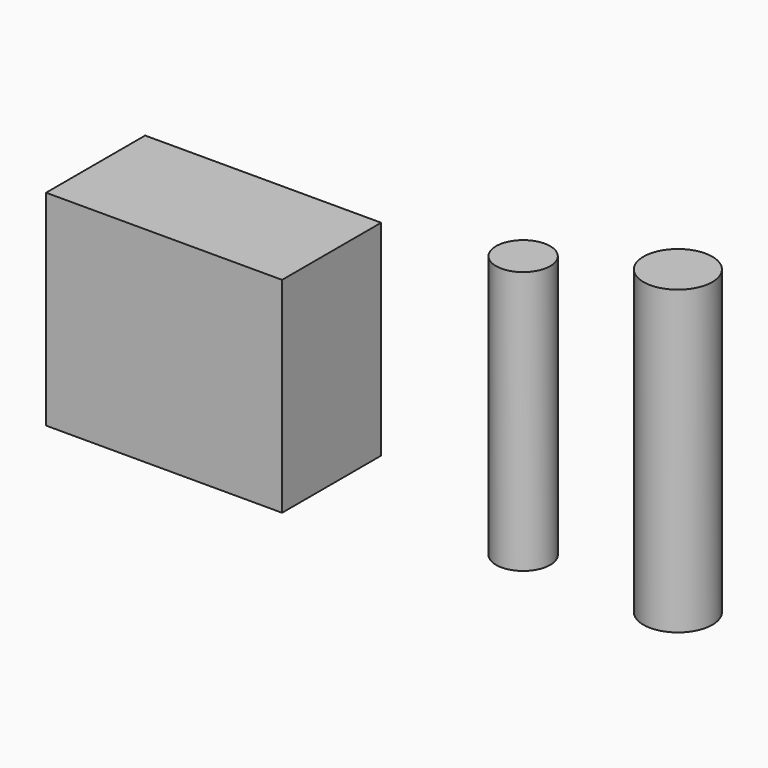
from build123d import *

# Parameters (mm, degrees)
F0_W     = 610
F0_H     = 320
F1_DEPTH = 530
F2_R     = 70
F3_DEPTH = 680
F2_R_2   = 89
F4_DEPTH = 780


with BuildPart() as f1:
    # F0 (on Top) → F1 (new body)
    with BuildSketch(Plane.XY):
        Rectangle(F0_W, F0_H)
    extrude(amount=F1_DEPTH)


with BuildPart() as f3:
    # F2 (on Top) → F3 (new body)
    with BuildSketch(Plane.XY):
        with Locations((800, 0)):
            Circle(F2_R)
    extrude(amount=F3_DEPTH)


with BuildPart() as f4:
    # F2 (on Top) → F4 (new body)
    with BuildSketch(Plane.XY):
        with Locations((1200, 0)):
            Circle(F2_R_2)
    extrude(amount=F4_DEPTH)


solid = Compound([f1.part, f3.part, f4.part])
